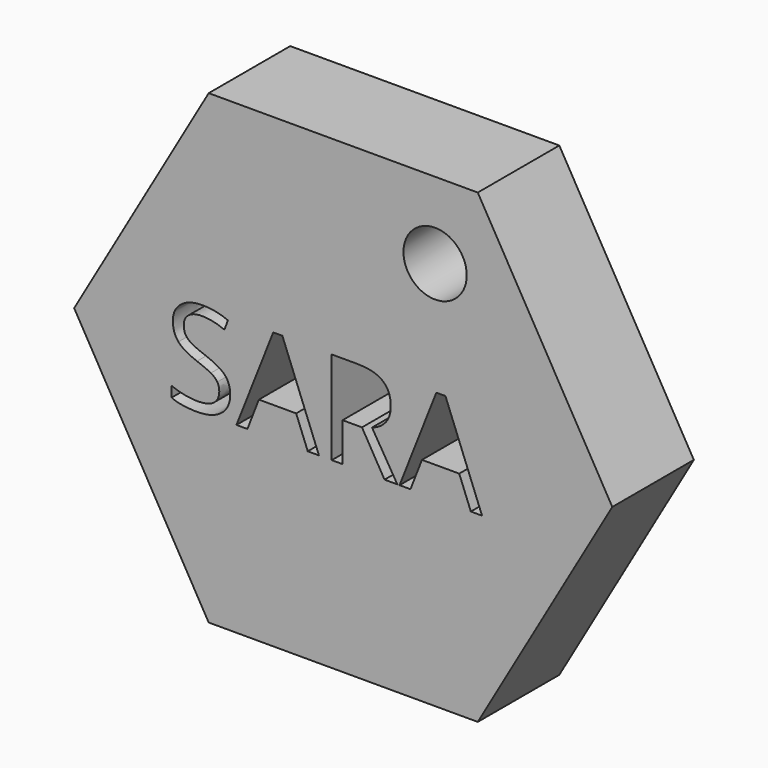
from build123d import *

# Parameters (mm, degrees)
F1_DEPTH = 7.62
F2_R     = 2.365375
F3_DEPTH = 25.4


with BuildPart() as f1:
    # F0 (on Front) → F1 (new body)
    with BuildSketch(Plane.XZ):
        Polygon((10.0597376004, 17.4239766347), (-10.0597376004, 17.4239766347), (-20.1194752008, 0), (-10.0597376004, -17.4239766347), (10.0597376004, -17.4239766347), (20.1194752008, 0), align=None)
        with BuildLine():
            add(Edge.make_bspline(
                [(-8.8631942381, -0.7304763376), (-8.451958628, -1.1782662241), (-8.451958628, -1.8910746148)],
                knots=[0, 0, 0, 1, 1, 1], degree=2))
            add(Edge.make_bspline(
                [(-8.451958628, -1.8910746148), (-8.451958628, -2.8095008106), (-9.1183126258, -3.3243068706)],
                knots=[0, 0, 0, 1, 1, 1], degree=2))
            add(Edge.make_bspline(
                [(-9.1183126258, -3.3243068706), (-9.7846666235, -3.8391129306), (-10.9269877626, -3.8391129306)],
                knots=[0, 0, 0, 1, 1, 1], degree=2))
            add(Edge.make_bspline(
                [(-10.9269877626, -3.8391129306), (-12.1637407824, -3.8391129306), (-12.8308563276, -3.5192630116)],
                knots=[0, 0, 0, 1, 1, 1], degree=2))
            Line((-12.8308563276, -3.5192630116), (-12.8308563276, -2.7394384474))
            add(Edge.make_bspline(
                [(-12.8308563276, -2.7394384474), (-12.4013435793, -2.9191636399), (-11.8971991833, -3.0242571847)],
                knots=[0, 0, 0, 1, 1, 1], degree=2))
            add(Edge.make_bspline(
                [(-11.8971991833, -3.0242571847), (-11.3930547873, -3.1293507295), (-10.8980489604, -3.1293507295)],
                knots=[0, 0, 0, 1, 1, 1], degree=2))
            add(Edge.make_bspline(
                [(-10.8980489604, -3.1293507295), (-10.0892855939, -3.1293507295), (-9.6795730788, -2.8224471168)],
                knots=[0, 0, 0, 1, 1, 1], degree=2))
            add(Edge.make_bspline(
                [(-9.6795730788, -2.8224471168), (-9.2698605636, -2.5155435042), (-9.2698605636, -1.9672293574)],
                knots=[0, 0, 0, 1, 1, 1], degree=2))
            add(Edge.make_bspline(
                [(-9.2698605636, -1.9672293574), (-9.2698605636, -1.6062558775), (-9.4153161219, -1.3755070074)],
                knots=[0, 0, 0, 1, 1, 1], degree=2))
            add(Edge.make_bspline(
                [(-9.4153161219, -1.3755070074), (-9.5607716803, -1.1447581373), (-9.9011833797, -0.9490404489)],
                knots=[0, 0, 0, 1, 1, 1], degree=2))
            add(Edge.make_bspline(
                [(-9.9011833797, -0.9490404489), (-10.2415950792, -0.7533227604), (-10.9361263317, -0.5065813943)],
                knots=[0, 0, 0, 1, 1, 1], degree=2))
            add(Edge.make_bspline(
                [(-10.9361263317, -0.5065813943), (-11.9063377524, -0.1593157681), (-12.3229041944, 0.3166513732)],
                knots=[0, 0, 0, 1, 1, 1], degree=2))
            add(Edge.make_bspline(
                [(-12.3229041944, 0.3166513732), (-12.7394706365, 0.7926185144), (-12.7394706365, 1.558735225)],
                knots=[0, 0, 0, 1, 1, 1], degree=2))
            add(Edge.make_bspline(
                [(-12.7394706365, 1.558735225), (-12.7394706365, 2.3629293069), (-12.1355635276, 2.8388964481)],
                knots=[0, 0, 0, 1, 1, 1], degree=2))
            add(Edge.make_bspline(
                [(-12.1355635276, 2.8388964481), (-11.5316564188, 3.3148635894), (-10.5355523856, 3.3148635894)],
                knots=[0, 0, 0, 1, 1, 1], degree=2))
            add(Edge.make_bspline(
                [(-10.5355523856, 3.3148635894), (-9.4983247914, 3.3148635894), (-8.627114536, 2.9340898764)],
                knots=[0, 0, 0, 1, 1, 1], degree=2))
            Line((-8.627114536, 2.9340898764), (-8.8799482814, 2.2304200547))
            add(Edge.make_bspline(
                [(-8.8799482814, 2.2304200547), (-9.7420199677, 2.5913935347), (-10.5553526187, 2.5913935347)],
                knots=[0, 0, 0, 1, 1, 1], degree=2))
            add(Edge.make_bspline(
                [(-10.5553526187, 2.5913935347), (-11.1980986462, 2.5913935347), (-11.5598336736, 2.3157133664)],
                knots=[0, 0, 0, 1, 1, 1], degree=2))
            add(Edge.make_bspline(
                [(-11.5598336736, 2.3157133664), (-11.9215687009, 2.0400331982), (-11.9215687009, 1.5495966559)],
                knots=[0, 0, 0, 1, 1, 1], degree=2))
            add(Edge.make_bspline(
                [(-11.9215687009, 1.5495966559), (-11.9215687009, 1.1886231759), (-11.7882979014, 0.9571127584)],
                knots=[0, 0, 0, 1, 1, 1], degree=2))
            add(Edge.make_bspline(
                [(-11.7882979014, 0.9571127584), (-11.6550271018, 0.7256023409), (-11.3382233726, 0.5329308422)],
                knots=[0, 0, 0, 1, 1, 1], degree=2))
            add(Edge.make_bspline(
                [(-11.3382233726, 0.5329308422), (-11.0214196434, 0.3402593434), (-10.3695350467, 0.107225831)],
                knots=[0, 0, 0, 1, 1, 1], degree=2))
            add(Edge.make_bspline(
                [(-10.3695350467, 0.107225831), (-9.2744298481, -0.2826864511), (-8.8631942381, -0.7304763376)],
                knots=[0, 0, 0, 1, 1, 1], degree=2))
        make_face(mode=Mode.SUBTRACT)
        Polygon((-1.8158343578, -3.7431579549), (-2.6535365264, -3.7431579549), (-3.5201774972, -1.5301011349), (-6.3089641712, -1.5301011349), (-7.1649434781, -3.7431579549), (-7.9843685085, -3.7431579549), (-5.2336592057, 3.2448012262), (-4.5528358069, 3.2448012262), align=None, mode=Mode.SUBTRACT)
        with BuildLine():
            Line((1.4024650645, -0.8492777361), (-0.0505674243, -0.8492777361))
            Line((-0.0505674243, -0.8492777361), (-0.0505674243, -3.7431579549))
            Line((-0.0505674243, -3.7431579549), (-0.8593307907, -3.7431579549))
            Line((-0.8593307907, -3.7431579549), (-0.8593307907, 3.215862424))
            Line((-0.8593307907, 3.215862424), (1.0491070589, 3.215862424))
            add(Edge.make_bspline(
                [(1.0491070589, 3.215862424), (2.3300298294, 3.215862424), (2.9415524125, 2.7254258816)],
                knots=[0, 0, 0, 1, 1, 1], degree=2))
            add(Edge.make_bspline(
                [(2.9415524125, 2.7254258816), (3.5530749956, 2.2349893393), (3.5530749956, 1.24954697)],
                knots=[0, 0, 0, 1, 1, 1], degree=2))
            add(Edge.make_bspline(
                [(3.5530749956, 1.24954697), (3.5530749956, -0.1303769659), (2.1533508266, -0.6162442237)],
                knots=[0, 0, 0, 1, 1, 1], degree=2))
            Line((2.1533508266, -0.6162442237), (4.0435115379, -3.7431579549))
            Line((4.0435115379, -3.7431579549), (3.0870079709, -3.7431579549))
            Line((3.0870079709, -3.7431579549), (1.4024650645, -0.8492777361))
        make_face(mode=Mode.SUBTRACT)
        Polygon((10.3780630275, -3.7431579549), (9.5403608589, -3.7431579549), (8.6737198881, -1.5301011349), (5.884933214, -1.5301011349), (5.0289539072, -3.7431579549), (4.2095288768, -3.7431579549), (6.9602381795, 3.2448012262), (7.6410615784, 3.2448012262), align=None, mode=Mode.SUBTRACT)
    extrude(amount=F1_DEPTH)

    # F2 (on face) → F3 (cut)
    with BuildSketch(Plane.XZ.offset(7.62)):
        with Locations((6.8676967915, 11.7051630221)):
            Circle(F2_R)
    extrude(amount=-F3_DEPTH, mode=Mode.SUBTRACT)


solid = f1.part
